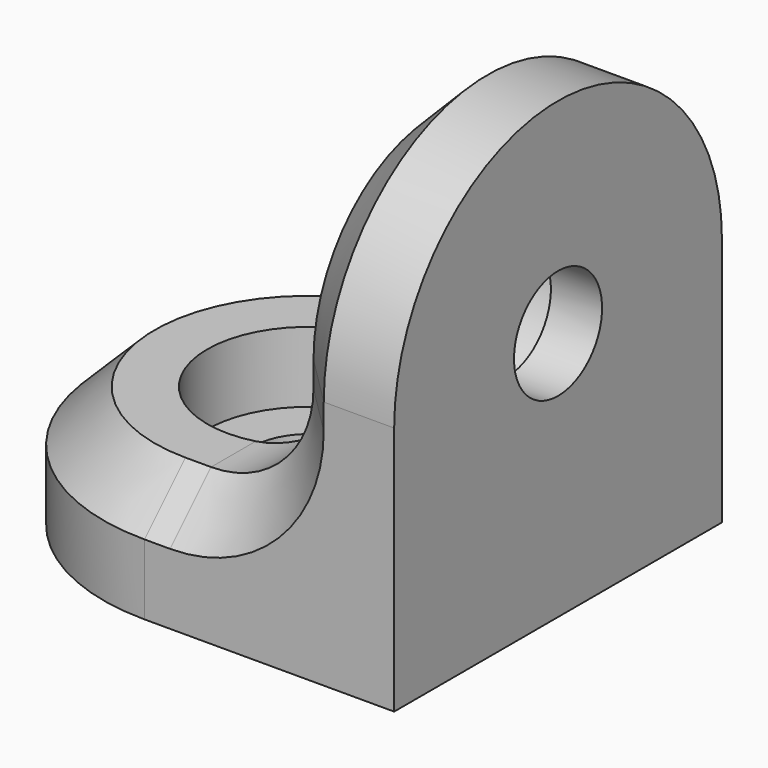
from build123d import *

# Parameters (mm, degrees)
PAD_DEPTH       = 4.75
PAD001_DEPTH    = 4.75
FILLET_R        = 4
CHAMFER_SIZE    = 2
SKETCH002_R     = 3.95
POCKET_DEPTH    = 2.75
SKETCH003_R     = 3.95
POCKET001_DEPTH = 2.75
SKETCH004_R     = 2.15
POCKET002_DEPTH = 2.001
SKETCH005_R     = 2.15
POCKET003_DEPTH = 2.001


with BuildPart() as part:
    # Sketch → Pad (new body)
    with BuildSketch(Plane.XY):
        with BuildLine():
            Line((-9.75, 8), (0, 8))
            Line((0, 8), (0, -8))
            Line((0, -8), (-9.749974, -8))
            ThreePointArc((-9.75, 8), (-17.749974, -1.3e-05), (-9.749974, -8))
        make_face()
    extrude(amount=PAD_DEPTH)

    # Sketch001 → Pad001 (new body)
    with BuildSketch(Plane.YZ):
        with BuildLine():
            Line((-8, 9.75), (-8, 0))
            Line((-8, 0), (8, 0))
            Line((8, 0), (8, 9.749968))
            ThreePointArc((8, 9.749968), (1.6e-05, 17.749968), (-8, 9.75))
        make_face()
    extrude(amount=-PAD001_DEPTH)

    # Fillet
    fillet_edges = [part.edges().sort_by_distance(p)[0] for p in [
        (-4.75, 0, 4.75),
    ]]
    fillet(fillet_edges, radius=FILLET_R)

    # Chamfer
    chamfer_edges = [part.edges().sort_by_distance(p)[0] for p in [
        (-17.749974, -1.3e-05, 4.75),
    ]]
    chamfer(chamfer_edges, length=CHAMFER_SIZE)

    # Sketch002 → Pocket (cut, symmetric)
    with BuildSketch(Plane.XY.offset(4.75)):
        with Locations((-9.749974, 0)):
            Circle(SKETCH002_R)
    extrude(amount=POCKET_DEPTH, both=True, mode=Mode.SUBTRACT)

    # Sketch003 → Pocket001 (cut, symmetric)
    with BuildSketch(Plane(origin=(-4.75, 0, 0), x_dir=(0, -1, 0), z_dir=(-1, 0, 0))):
        with Locations((0, 9.749968)):
            Circle(SKETCH003_R)
    extrude(amount=POCKET001_DEPTH, both=True, mode=Mode.SUBTRACT)

    # Sketch004 → Pocket002 (cut, through all)
    with BuildSketch(Plane(origin=(-2, 0, 0), x_dir=(0, -1, 0), z_dir=(-1, 0, 0))):
        with Locations((0, 9.749968)):
            Circle(SKETCH004_R)
    extrude(amount=-POCKET002_DEPTH, mode=Mode.SUBTRACT)

    # Sketch005 → Pocket003 (cut, through all)
    with BuildSketch(Plane.XY.offset(2)):
        with Locations((-9.749974, 0)):
            Circle(SKETCH005_R)
    extrude(amount=-POCKET003_DEPTH, mode=Mode.SUBTRACT)


solid = part.part
